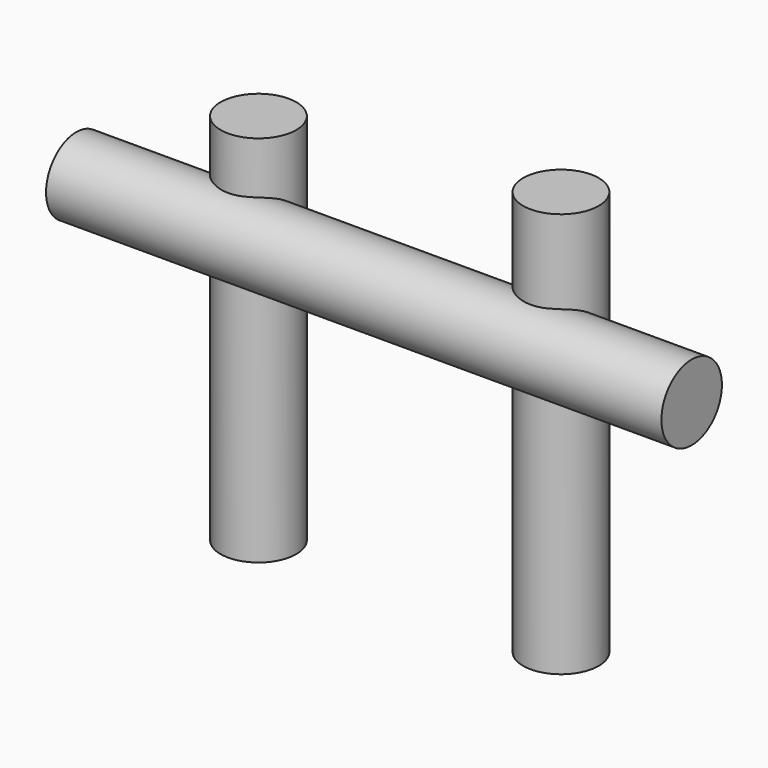
from build123d import *

# Parameters (mm, degrees)
F0_R     = 400
F1_DEPTH = 3255
F2_R     = 400
F3_DEPTH = 3950
F4_R     = 400
F5_DEPTH = 4284


with BuildPart() as f1:
    # F0 (on Right) → F1 (new body, symmetric)
    with BuildSketch(Plane.YZ):
        with Locations((-340, 3001)):
            Circle(F0_R)
    extrude(amount=F1_DEPTH, both=True)


with BuildPart() as f3:
    # F2 (on Top) → F3 (new body)
    with BuildSketch(Plane.XY):
        with Locations((-1600, 0)):
            Circle(F2_R)
    extrude(amount=F3_DEPTH)


with BuildPart() as f5:
    # F4 (on Top) → F5 (new body)
    with BuildSketch(Plane.XY):
        with Locations((1600, 0)):
            Circle(F4_R)
    extrude(amount=F5_DEPTH)


solid = Compound([f1.part, f3.part, f5.part])
